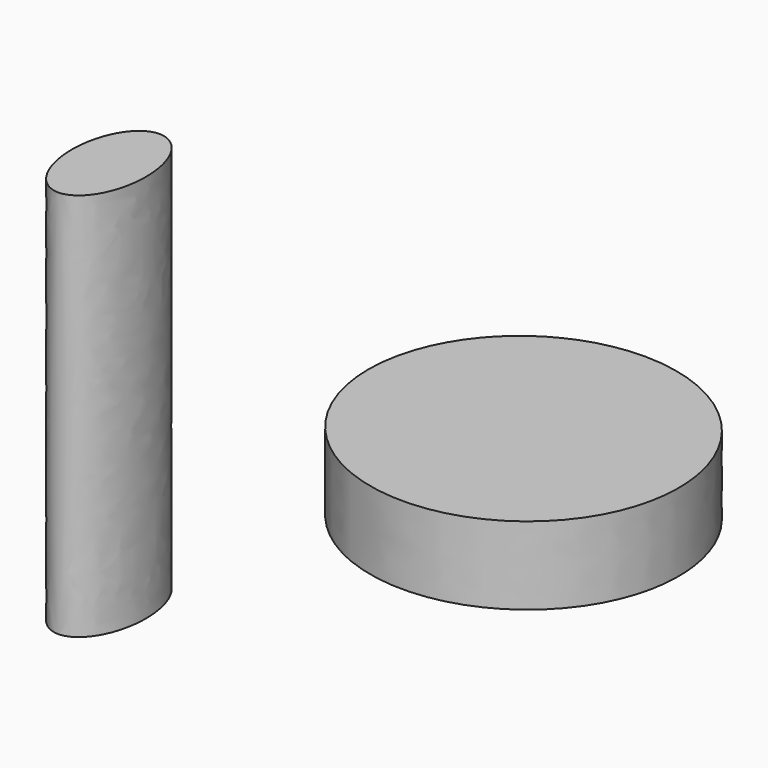
from build123d import *

# Parameters (mm, degrees)
F1_DEPTH = 25.4
F3_DEPTH = 127


with BuildPart() as f1:
    # F0 (on Top) → F1 (new body)
    with BuildSketch(Plane.XY):
        with BuildLine():
            add(Edge.make_bspline(
                [(-14.811955, -6.897171), (67.864224, -40.609788), (55.019365, 46.122777), (42.174506, 132.855343), (-27.656815, 79.835394), (-97.488135, 26.815446), (-14.811955, -6.897171)],
                knots=[4.712389, 4.712389, 4.712389, 6.806784, 6.806784, 8.901179, 8.901179, 10.995574, 10.995574, 10.995574], degree=2, weights=[1, 0.5, 1, 0.5, 1, 0.5, 1]))
        make_face()
    extrude(amount=F1_DEPTH)


with BuildPart() as f3:
    # F2 (on Top) → F3 (new body)
    with BuildSketch(Plane.XY):
        with BuildLine():
            add(Edge.make_bspline(
                [(-48.081193, -84.980264), (-27.113168, -84.980264), (-37.597181, -53.93973), (-48.081193, -22.899196), (-58.565205, -53.93973), (-69.049218, -84.980264), (-48.081193, -84.980264)],
                knots=[0, 0, 0, 2.094395, 2.094395, 4.18879, 4.18879, 6.283185, 6.283185, 6.283185], degree=2, weights=[1, 0.5, 1, 0.5, 1, 0.5, 1]))
        make_face()
    extrude(amount=F3_DEPTH)


solid = Compound([f1.part, f3.part])
